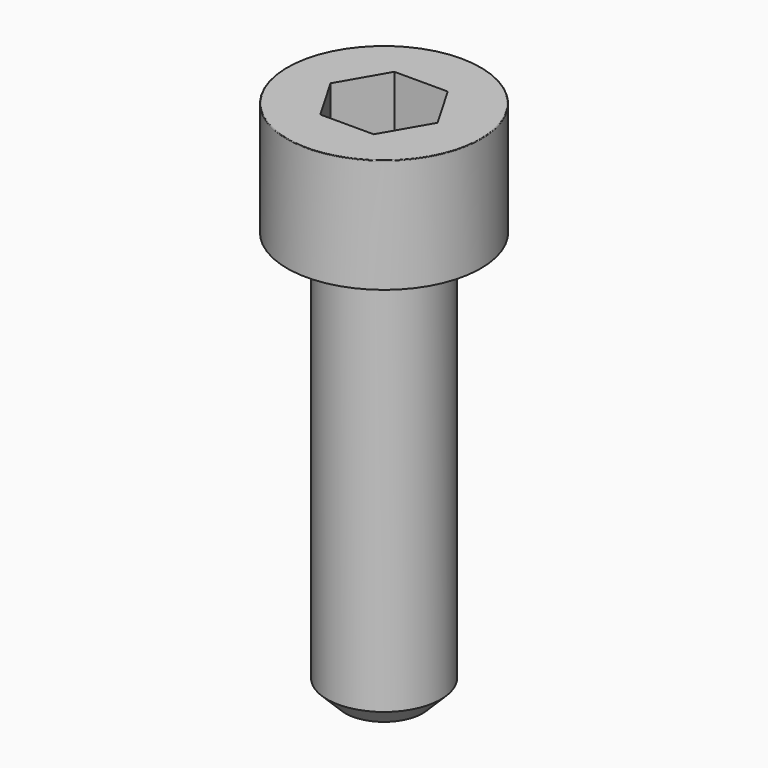
from build123d import *

# Parameters (mm, degrees)
POCKET_DEPTH = 4.06


with BuildPart() as part:
    # Sketch → Revolve (revolve)
    with BuildSketch(Plane.YZ):
        with BuildLine():
            Line((2.499, 0), (4.25, 0))
            Line((4.25, 0), (4.25, 4.97229))
            ThreePointArc((4.25, 4.97229), (4.241884, 4.991884), (4.22229, 5))
            Line((4.22229, 5), (0, 5))
            Line((0, -18), (0, 5))
            Line((1.7, -18), (0, -18))
            Line((2.5, -17.2), (1.7, -18))
            Line((2.5, -0.2), (2.5, -17.2))
            Line((2.499, 0), (2.5, -0.2))
        make_face()
    revolve(axis=Axis((0, 0, 0), (0, 0, 1)))

    # Sketch001 → Pocket (cut)
    with BuildSketch(Plane.XY.offset(5)):
        Polygon((2.344042, 0), (1.172021, 2.03), (-1.172021, 2.03), (-2.344042, 0), (-1.172021, -2.03), (1.172021, -2.03), align=None)
    extrude(amount=-POCKET_DEPTH, mode=Mode.SUBTRACT)


solid = part.part
